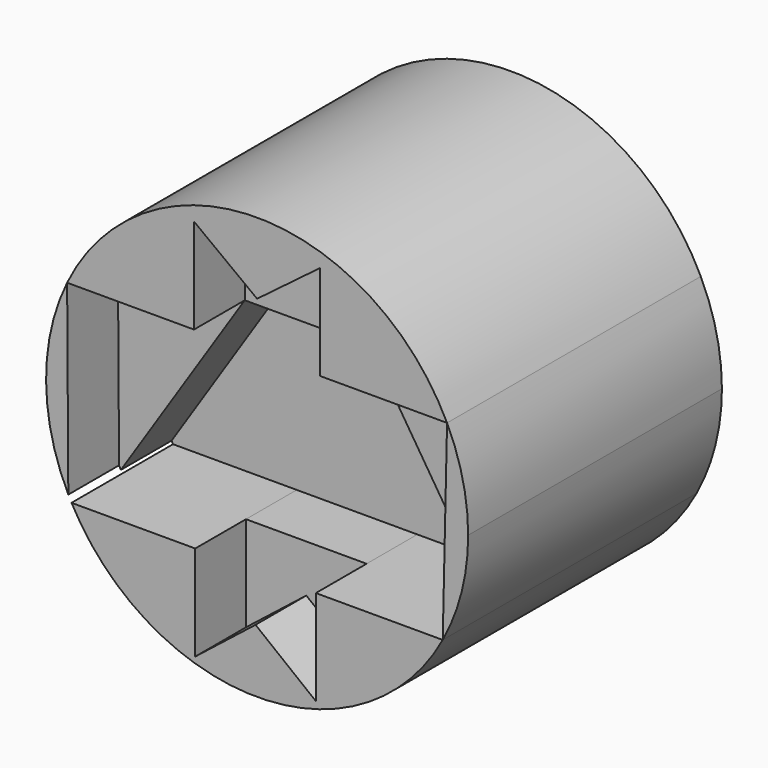
from build123d import *

# Parameters (mm, degrees)
F1_DEPTH = 63.5
F2_DEPTH = 12.7
F3_DEPTH = 38.1


with BuildPart() as f1:
    # F0 (on Front) → F1 (new body, symmetric)
    with BuildSketch(Plane.XZ):
        with BuildLine():
            ThreePointArc((84.5017363775, 1.1998772249), (82.3616896747, 20.0966814365), (76.0499468625, 38.0363278091))
            Line((76.0499468625, 38.0363278091), (74.3155075788, -39.0209970117))
            ThreePointArc((74.3155075788, -39.0209970117), (81.9156048852, -19.5454715399), (84.5017363775, 1.1998772249))
        make_face()
    extrude(amount=F1_DEPTH, both=True)


with BuildPart() as f1b:
    # F0 (on Front) → F1, piece 2 (new body, symmetric)
    with BuildSketch(Plane.XZ):
        with BuildLine():
            ThreePointArc((76.0499468625, 38.0363278091), (60.6212581563, 60.0686808362), (39.0504506642, 76.1363278091))
            Line((39.0504506642, 76.1363278091), (25.2499468625, 76.1363278091))
            Line((25.2499468625, 76.1363278091), (25.2499468625, 38.0363278091))
            Line((25.2499468625, 38.0363278091), (76.0499468625, 38.0363278091))
        make_face()
        with BuildLine():
            Line((25.2499468625, 76.1363278091), (39.0504506642, 76.1363278091))
            ThreePointArc((39.0504506642, 76.1363278091), (-0.0532737034, 85.7001203567), (-39.1445721419, 76.085663861))
            Line((-39.1445721419, 76.085663861), (-25.2715156794, 76.085663861))
            Line((-25.2715156794, 76.085663861), (-0.0107844085, 57.0609958351))
            Line((-0.0107844085, 57.0609958351), (25.2499468625, 76.1363278091))
        make_face()
        with BuildLine():
            Line((-25.2715156794, 76.085663861), (-39.1445721419, 76.085663861))
            ThreePointArc((-39.1445721419, 76.085663861), (-60.6760263163, 60.0091865137), (-76.0715156794, 37.985663861))
            Line((-76.0715156794, 37.985663861), (-25.2715156794, 37.985663861))
            Line((-25.2715156794, 37.985663861), (-25.2715156794, 76.085663861))
        make_face()
    extrude(amount=F1_DEPTH, both=True)


with BuildPart() as f1c:
    # F0 (on Front) → F1, piece 3 (new body, symmetric)
    with BuildSketch(Plane.XZ):
        with BuildLine():
            Line((-75.5949654529, -36.5555488842), (-76.0715156794, 37.985663861))
            ThreePointArc((-76.0715156794, 37.985663861), (-84.4970585704, 0.6596687406), (-75.5949654529, -36.5555488842))
        make_face()
    extrude(amount=F1_DEPTH, both=True)


with BuildPart() as f1d:
    # F0 (on Front) → F1, piece 4 (new body, symmetric)
    with BuildSketch(Plane.XZ):
        with BuildLine():
            Line((-24.7792036653, -77.1209821105), (-24.7792036653, -39.0209821105))
            Line((-24.7792036653, -39.0209821105), (-74.3125646254, -39.0209821105))
            ThreePointArc((-74.3125646254, -39.0209821105), (-56.3340292756, -61.7811118706), (-31.7181884198, -77.1209821105))
            Line((-31.7181884198, -77.1209821105), (-24.7792036653, -77.1209821105))
        make_face()
        with BuildLine():
            ThreePointArc((-31.7181884198, -77.1209821105), (0.001455661, -83.3003836433), (31.7211026448, -77.1209970117))
            Line((31.7211026448, -77.1209970117), (23.5155075788, -77.1209970117))
            Line((23.5155075788, -77.1209970117), (-0.6318480432, -58.0709895611))
            Line((-0.6318480432, -58.0709895611), (-24.7792036653, -77.1209821105))
            Line((-24.7792036653, -77.1209821105), (-31.7181884198, -77.1209821105))
        make_face()
        with BuildLine():
            ThreePointArc((31.7211026448, -77.1209970117), (56.3369591861, -61.7811307512), (74.3155075788, -39.0209970117))
            Line((74.3155075788, -39.0209970117), (23.5155075788, -39.0209970117))
            Line((23.5155075788, -39.0209970117), (23.5155075788, -77.1209970117))
            Line((23.5155075788, -77.1209970117), (31.7211026448, -77.1209970117))
        make_face()
    extrude(amount=F1_DEPTH, both=True)


with BuildPart() as f2:
    # F0 (on Front) → F2 (new body, symmetric)
    with BuildSketch(Plane.XZ):
        Polygon((-0.3362559173, -1.3727754131), (25.2499468625, 38.0363278091), (-25.2715156794, 37.985663861), align=None)
        with BuildLine():
            Line((-24.7792036653, -39.0209821105), (-0.3362559173, -1.3727754131))
            Line((-0.3362559173, -1.3727754131), (-25.2715156794, 37.985663861))
            Line((-25.2715156794, 37.985663861), (-74.8810788251, -37.9523531481))
            ThreePointArc((-74.8810788251, -37.9523531481), (-74.5987352294, -38.48768562), (-74.3125646254, -39.0209821105))
            Line((-74.3125646254, -39.0209821105), (-24.7792036653, -39.0209821105))
        make_face()
        Polygon((74.3155075788, -39.0209970117), (25.2499468625, 38.0363278091), (-0.3362559173, -1.3727754131), (23.5155075788, -39.0209970117), align=None)
        Polygon((23.5155075788, -39.0209970117), (-0.3362559173, -1.3727754131), (-24.7792036653, -39.0209821105), align=None)
    extrude(amount=F2_DEPTH, both=True)


with BuildPart() as f3:
    # F0 (on Front) → F3 (new body, symmetric)
    with BuildSketch(Plane.XZ):
        Polygon((74.3155075788, -39.0209970117), (76.0499468625, 38.0363278091), (25.2499468625, 38.0363278091), align=None)
    extrude(amount=F3_DEPTH, both=True)


with BuildPart() as f3b:
    # F0 (on Front) → F3, piece 2 (new body, symmetric)
    with BuildSketch(Plane.XZ):
        Polygon((-25.2715156794, 37.985663861), (25.2499468625, 38.0363278091), (-0.0107844085, 57.0609958351), align=None)
        Polygon((25.2499468625, 38.0363278091), (25.2499468625, 76.1363278091), (-0.0107844085, 57.0609958351), align=None)
        Polygon((-25.2715156794, 37.985663861), (-0.0107844085, 57.0609958351), (-25.2715156794, 76.085663861), align=None)
    extrude(amount=F3_DEPTH, both=True)


with BuildPart() as f3c:
    # F0 (on Front) → F3, piece 3 (new body, symmetric)
    with BuildSketch(Plane.XZ):
        with BuildLine():
            Line((-25.2715156794, 37.985663861), (-76.0715156794, 37.985663861))
            Line((-76.0715156794, 37.985663861), (-75.5949654529, -36.5555488842))
            ThreePointArc((-75.5949654529, -36.5555488842), (-75.2412634886, -37.2556076234), (-74.8810788251, -37.9523531481))
            Line((-74.8810788251, -37.9523531481), (-25.2715156794, 37.985663861))
        make_face()
    extrude(amount=F3_DEPTH, both=True)


with BuildPart() as f3d:
    # F0 (on Front) → F3, piece 4 (new body, symmetric)
    with BuildSketch(Plane.XZ):
        Polygon((-0.6318480432, -58.0709895611), (-24.7792036653, -39.0209821105), (-24.7792036653, -77.1209821105), align=None)
        Polygon((23.5155075788, -77.1209970117), (23.5155075788, -39.0209970117), (-0.6318480432, -58.0709895611), align=None)
        Polygon((-0.6318480432, -58.0709895611), (23.5155075788, -39.0209970117), (-24.7792036653, -39.0209821105), align=None)
    extrude(amount=F3_DEPTH, both=True)


solid = Compound([f1.part, f1b.part, f1c.part, f1d.part, f2.part, f3.part, f3b.part, f3c.part, f3d.part])
